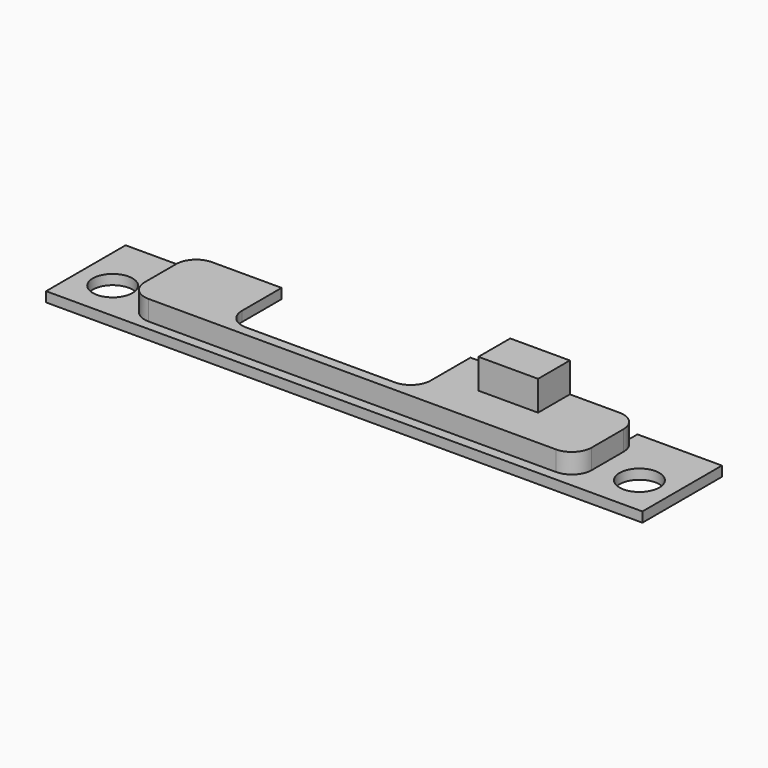
from build123d import *

# Parameters (mm, degrees)
BOX003_W          = 3
BOX003_H          = 2
BOX003_DEPTH      = 3
BOX004_W          = 21.5
BOX004_H          = 4
BOX004_DEPTH      = 1
BOX002_W          = 9.5
BOX002_H          = 3.5
BOX002_DEPTH      = 1.5
FILLET001_R       = 1
CYLINDER_R        = 1
CYLINDER_DEPTH    = 10
CYLINDER001_R     = 1
CYLINDER001_DEPTH = 10
BOX_W             = 30
BOX_H             = 5
BOX_DEPTH         = 0.5
BOX001_W          = 22.5
BOX001_H          = 4
BOX001_DEPTH      = 1
FILLET_R          = 1


with BuildPart() as cube003_switch:
    # Box003 → Box003 (new body)
    with BuildSketch(Plane(origin=(19.75, 2.5, 0), x_dir=(1, 0, 0), z_dir=(0, 0, 1))):
        with Locations((1.5, 1)):
            Rectangle(BOX003_W, BOX003_H)
    extrude(amount=BOX003_DEPTH)


with BuildPart() as cube002_back_cutter:
    # Box004 → Box004 (new body)
    with BuildSketch(Plane(origin=(4.25, 1, 0), x_dir=(1, 0, 0), z_dir=(0, 0, 1))):
        with Locations((10.75, 2)):
            Rectangle(BOX004_W, BOX004_H)
    extrude(amount=BOX004_DEPTH)


with BuildPart() as fillet001:
    # Box002 → Box002 (new body)
    with BuildSketch(Plane(origin=(8.25, 1, 0), x_dir=(1, 0, 0), z_dir=(0, 0, 1))):
        with Locations((4.75, 1.75)):
            Rectangle(BOX002_W, BOX002_H)
    extrude(amount=BOX002_DEPTH)

    # Fillet001
    fillet001_edges = [fillet001.edges().sort_by_distance(p)[0] for p in [
        (8.25, 1, 0.75),
        (17.75, 1, 0.75),
    ]]
    fillet(fillet001_edges, radius=FILLET001_R)


with BuildPart() as cylinder:
    # Cylinder → Cylinder (new body)
    with BuildSketch(Plane(origin=(1.75, 2, 0), x_dir=(1, 0, 0), z_dir=(0, 0, 1))):
        Circle(CYLINDER_R)
    extrude(amount=CYLINDER_DEPTH)


with BuildPart() as fusion:
    # Cylinder001 → Cylinder001 (new body)
    with BuildSketch(Plane(origin=(28.25, 2, 0), x_dir=(1, 0, 0), z_dir=(0, 0, 1))):
        Circle(CYLINDER001_R)
    extrude(amount=CYLINDER001_DEPTH)

    # Fusion: union Cylinder
    add(cylinder.part)


with BuildPart() as cube_backing:
    # Box → Box (new body)
    with BuildSketch(Plane.XY):
        with Locations((15, 2.5)):
            Rectangle(BOX_W, BOX_H)
    extrude(amount=BOX_DEPTH)


with BuildPart() as cut002:
    # Box001 → Box001 (new body)
    with BuildSketch(Plane(origin=(3.75, 0.5, 0.5), x_dir=(1, 0, 0), z_dir=(0, 0, 1))):
        with Locations((11.25, 2)):
            Rectangle(BOX001_W, BOX001_H)
    extrude(amount=BOX001_DEPTH)

    # Fillet
    fillet_edges = [cut002.edges().sort_by_distance(p)[0] for p in [
        (3.75, 0.5, 1),
        (3.75, 4.5, 1),
        (26.25, 0.5, 1),
        (26.25, 4.5, 1),
    ]]
    fillet(fillet_edges, radius=FILLET_R)

    # Fusion003: union Cube(backing)
    add(cube_backing.part)

    # Cut: cut Fusion
    add(fusion.part, mode=Mode.SUBTRACT)

    # Cut001: cut Fillet001
    add(fillet001.part, mode=Mode.SUBTRACT)

    # Cut002: cut Cube002(back_cutter)
    add(cube002_back_cutter.part, mode=Mode.SUBTRACT)


solid = Compound([cube003_switch.part, cut002.part])
